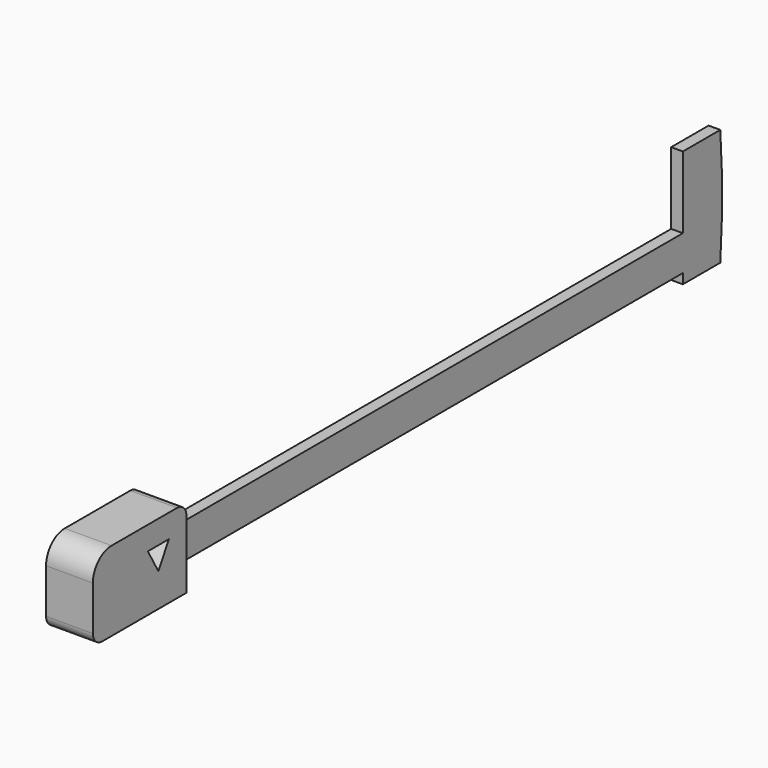
from build123d import *

# Parameters (mm, degrees)
F1_DEPTH      = 3
F1_DEPTH_BACK = 1
F2_DEPTH      = 1


with BuildPart() as f1:
    # F0 (on Right) → F1 (new body, two sides)
    with BuildSketch(Plane.YZ) as f1_sk:
        with BuildLine():
            ThreePointArc((-7, -3.15), (-6.707107, -3.857107), (-6, -4.15))
            Line((-6, -4.15), (3, -4.15))
            Line((3, -4.15), (3, -1.15))
            Line((3, -1.15), (3, 1.65))
            ThreePointArc((3, 1.65), (2.707107, 2.357107), (2, 2.65))
            Line((2, 2.65), (-5, 2.65))
            ThreePointArc((-5, 2.65), (-6.414214, 2.064214), (-7, 0.65))
            Line((-7, 0.65), (-7, -3.15))
        make_face()
        Polygon((0, -1.3), (-1.125833, 0.65), (1.125833, 0.65), align=None, mode=Mode.SUBTRACT)
    extrude(amount=F1_DEPTH)
    extrude(f1_sk.sketch, amount=-F1_DEPTH_BACK)

    # F0 (on Right) → F2 (join, through all)
    with BuildSketch(Plane.YZ):
        with BuildLine():
            Line((3, -1.15), (3, -4.15))
            Line((3, -4.15), (59.804389, -4.15))
            Line((59.804389, -4.15), (59.804389, -5))
            Line((59.804389, -5), (63.804389, -5))
            ThreePointArc((63.804389, -5), (64, 0), (63.804389, 5))
            Line((63.804389, 5), (59.804389, 5))
            Line((59.804389, 5), (59.804389, -1.15))
            Line((59.804389, -1.15), (3, -1.15))
        make_face()
    extrude(amount=-F2_DEPTH)


solid = f1.part
